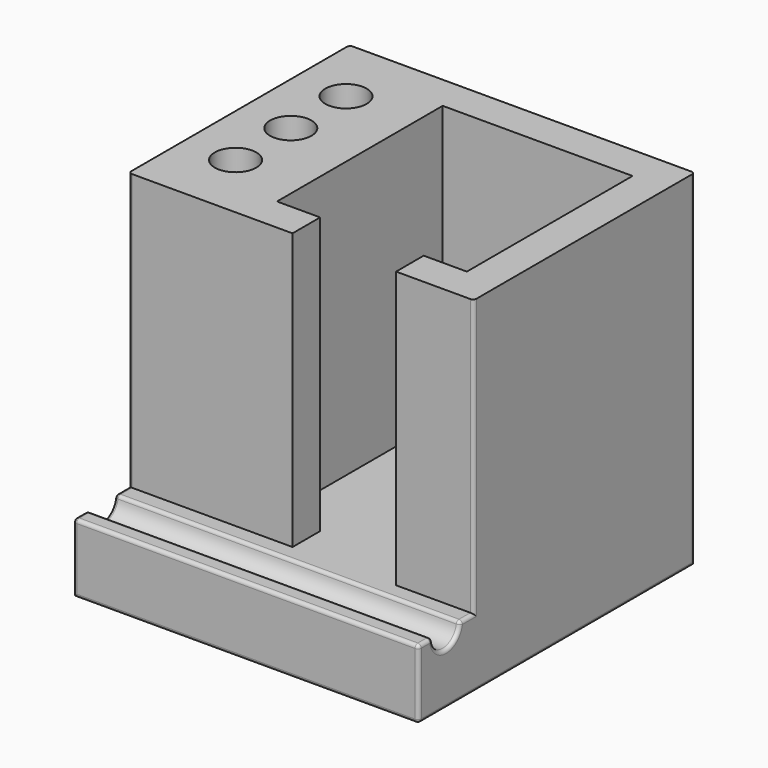
from build123d import *

# Parameters (mm, degrees)
F0_W     = 100
F0_H     = 100
F1_DEPTH = 100
F2_W     = 100
F2_H     = 20
F3_DEPTH = 80
F4_W     = 30
F4_H     = 10
F5_DEPTH = 80
F6_R     = 6
F7_DEPTH = 80
F9_DEPTH = 100
F10_R    = 1


with BuildPart() as f1:
    # F0 (on Top) → F1 (new body)
    with BuildSketch(Plane.XY):
        Rectangle(F0_W, F0_H)
    extrude(amount=F1_DEPTH)

    # F2 (on face) → F3 (cut)
    with BuildSketch(Plane.XY.offset(100)):
        with Locations((0, -40)):
            Rectangle(F2_W, F2_H)
    extrude(amount=-F3_DEPTH, mode=Mode.SUBTRACT)

    # F4 (on face) → F5 (cut, through all)
    with BuildSketch(Plane.XY.offset(100)):
        Polygon((40, 40), (-15, 40), (-15, -20), (-2.5, -20), (27.5, -20), (40, -20), align=None)
        with Locations((12.5, -25)):
            Rectangle(F4_W, F4_H)
    extrude(amount=-F5_DEPTH, mode=Mode.SUBTRACT)

    # F6 (on face) → F7 (cut, through all)
    with BuildSketch(Plane.XY.offset(100)):
        with Locations((-35, -10)):
            Circle(F6_R)
        with Locations((-35, 10)):
            Circle(F6_R)
        with Locations((-35, 30)):
            Circle(F6_R)
    extrude(amount=-F7_DEPTH, mode=Mode.SUBTRACT)

    # F8 (on face) → F9 (cut, through all)
    with BuildSketch(Plane.YZ.offset(50)):
        with BuildLine():
            ThreePointArc((-45, 20), (-40, 15), (-35, 20))
            Line((-35, 20), (-45, 20))
        make_face()
    extrude(amount=-F9_DEPTH, mode=Mode.SUBTRACT)

    # F10
    f10_edges = [f1.edges().sort_by_distance(p)[0] for p in [
        (0, -35, 20),
        (0, -45, 20),
        (50, -50, 10),
        (0, -50, 20),
        (-50, -50, 10),
        (0, -50, 0),
        (50, 0, 0),
        (50, -40, 15),
        (50, -47.5, 20),
        (50, -32.5, 20),
        (50, -30, 60),
        (-50, -40, 15),
        (-50, -47.5, 20),
        (-50, -32.5, 20),
        (50, 50, 50),
        (-50, -30, 60),
        (-50, 50, 50),
    ]]
    fillet(f10_edges, radius=F10_R)


solid = f1.part
